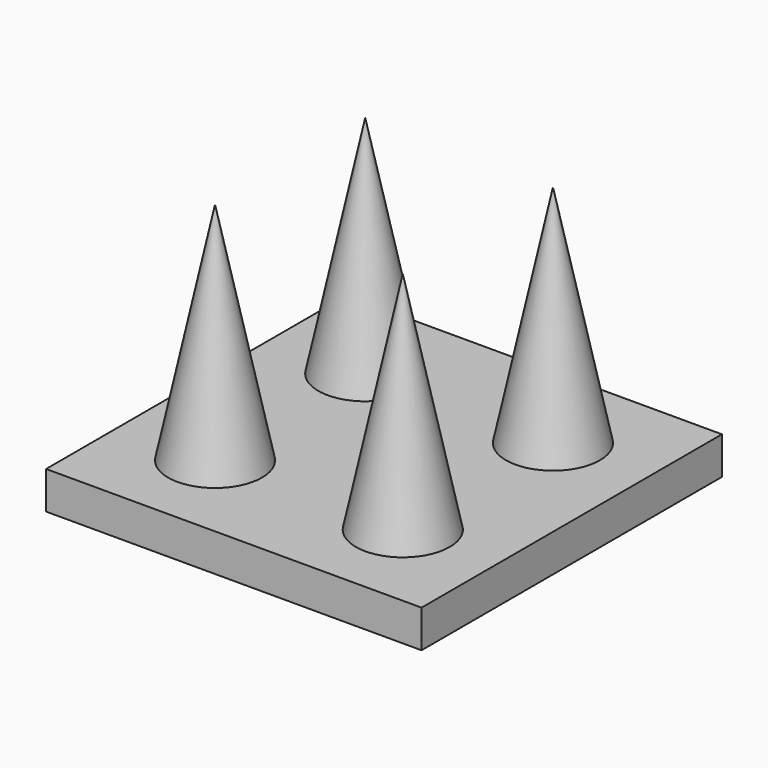
from build123d import *

# Parameters (mm, degrees)
F0_W     = 20
F0_H     = 20
F0_R     = 2.5
F1_DEPTH = 2


with BuildPart() as f1:
    # F0 (on Top) → F1 (new body)
    with BuildSketch(Plane.XY):
        with Locations((10, -10)):
            Rectangle(F0_W, F0_H)
        with Locations((5, -15)):
            Circle(F0_R, mode=Mode.SUBTRACT)
        with Locations((15, -15)):
            Circle(F0_R, mode=Mode.SUBTRACT)
        with Locations((5, -5)):
            Circle(F0_R, mode=Mode.SUBTRACT)
        with Locations((15, -5)):
            Circle(F0_R, mode=Mode.SUBTRACT)
        with Locations((5, -5)):
            Circle(F0_R)
        with Locations((15, -5)):
            Circle(F0_R)
        with Locations((15, -15)):
            Circle(F0_R)
        with Locations((5, -15)):
            Circle(F0_R)
    extrude(amount=-F1_DEPTH)

    # F0 (on Top) → F4 section 0
    with BuildSketch(Plane.XY, mode=Mode.PRIVATE) as f4_s0:
        with Locations((15, -15)):
            Circle(F0_R)
    loft([f4_s0.sketch, Vertex(15, -15, 12)])

    # F0 (on Top) → F5 section 0
    with BuildSketch(Plane.XY, mode=Mode.PRIVATE) as f5_s0:
        with Locations((15, -5)):
            Circle(F0_R)
    loft([Vertex(15, -5, 12), f5_s0.sketch])

    # F0 (on Top) → F6 section 0
    with BuildSketch(Plane.XY, mode=Mode.PRIVATE) as f6_s0:
        with Locations((5, -5)):
            Circle(F0_R)
    loft([f6_s0.sketch, Vertex(5, -5, 12)])

    # F0 (on Top) → F7 section 0
    with BuildSketch(Plane.XY, mode=Mode.PRIVATE) as f7_s0:
        with Locations((5, -15)):
            Circle(F0_R)
    loft([Vertex(5, -15, 12), f7_s0.sketch])


solid = f1.part
